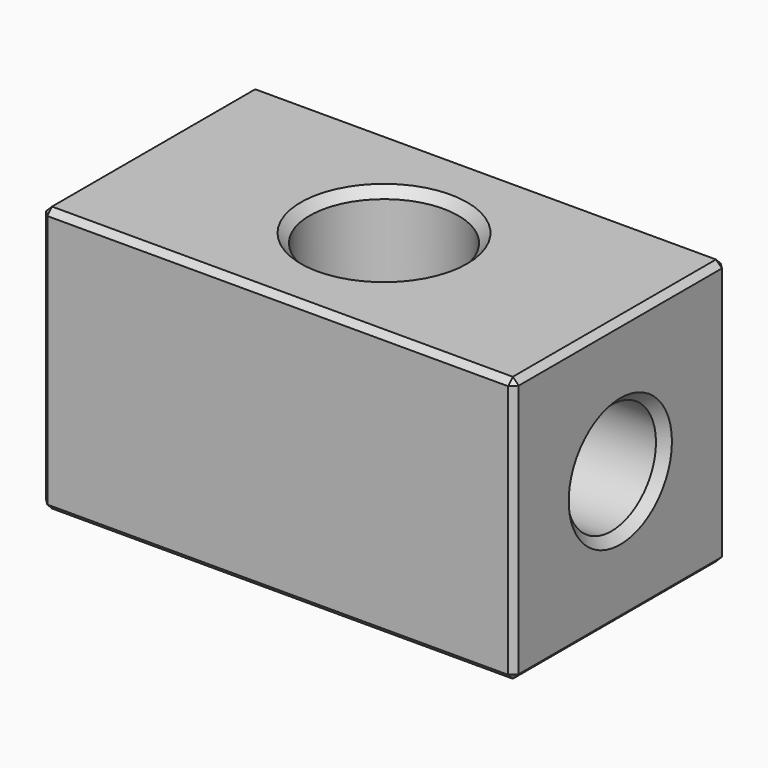
from build123d import *

# Parameters (mm, degrees)
F0_W     = 80
F0_H     = 45
F1_DEPTH = 22.5
F2_R     = 12.58
F3_DEPTH = 45.001
F4_R     = 9.42
F5_DEPTH = 25
F6_R     = 9.42
F7_DEPTH = 25
F8_SIZE  = 1.5
F9_SIZE  = 1


with BuildPart() as f1:
    # F0 (on Front) → F1 (new body, symmetric)
    with BuildSketch(Plane.XZ):
        Rectangle(F0_W, F0_H)
    extrude(amount=F1_DEPTH, both=True)

    # F2 (on face) → F3 (cut, through all)
    with BuildSketch(Plane.XY.offset(22.5)):
        Circle(F2_R)
    extrude(amount=-F3_DEPTH, mode=Mode.SUBTRACT)

    # F4 (on face) → F5 (cut)
    with BuildSketch(Plane(origin=(-40, 0, 0), x_dir=(0, -1, 0), z_dir=(-1, 0, 0))):
        Circle(F4_R)
    extrude(amount=-F5_DEPTH, mode=Mode.SUBTRACT)

    # F6 (on face) → F7 (cut)
    with BuildSketch(Plane.YZ.offset(40)):
        Circle(F6_R)
    extrude(amount=-F7_DEPTH, mode=Mode.SUBTRACT)

    # F8
    f8_edges = [f1.edges().sort_by_distance(p)[0] for p in [
        (-12.58, 0, 22.5),
        (-40, 9.42, 0),
        (-12.58, 0, -22.5),
        (40, -9.42, 0),
    ]]
    chamfer(f8_edges, length=F8_SIZE)

    # F9
    f9_edges = [f1.edges().sort_by_distance(p)[0] for p in [
        (0, -22.5, 22.5),
        (40, -22.5, 0),
        (0, -22.5, -22.5),
        (-40, -22.5, 0),
        (40, 0, 22.5),
        (0, 22.5, 22.5),
        (-40, 0, 22.5),
        (40, 0, -22.5),
        (40, 22.5, 0),
        (0, 22.5, -22.5),
        (-40, 22.5, 0),
        (-40, 0, -22.5),
    ]]
    chamfer(f9_edges, length=F9_SIZE)


solid = f1.part
